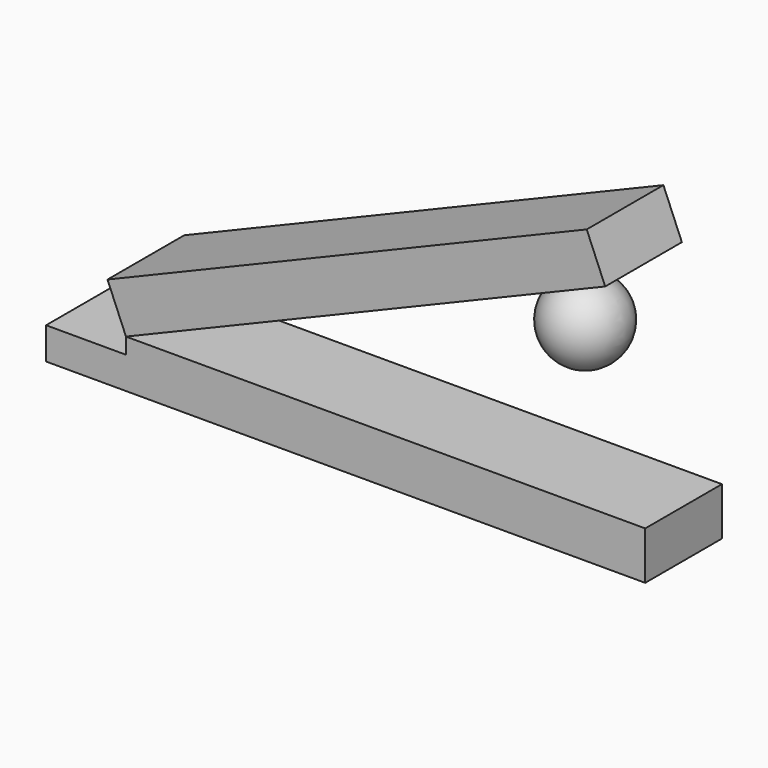
from build123d import *

# Parameters (mm, degrees)
F1_DEPTH = 15.24
F2_DEPTH = 15.24


with BuildPart() as f1:
    # F0 (on Front) → F1 (new body, symmetric)
    with BuildSketch(Plane.XZ):
        Polygon((165.1, 0), (0, 0), (0, -5.08), (-25.4, -5.08), (-25.4, -15.24), (165.1, -15.24), align=None)
    extrude(amount=F1_DEPTH, both=True)


with BuildPart() as f2:
    # F0 (on Front) → F2 (new body, symmetric)
    with BuildSketch(Plane.XZ):
        Polygon((-5.8688389302, 14.0646482221), (0, 0), (152.3670224062, 63.5790884102), (146.498183476, 77.6437366323), align=None)
    extrude(amount=F2_DEPTH, both=True)

    # F0 (on Front) → F3 (revolve)
    with BuildSketch(Plane.XZ):
        with BuildLine():
            Line((133.8166411445, 54.7771500081), (133.8166411445, 29.3771500081))
            ThreePointArc((133.8166411445, 29.3771500081), (146.5166411445, 42.0771500081), (133.8166411445, 54.7771500081))
        make_face()
    revolve(axis=Axis((133.8166411445, 0, 42.0771500081), (0, 0, -1)))


solid = Compound([f1.part, f2.part])
